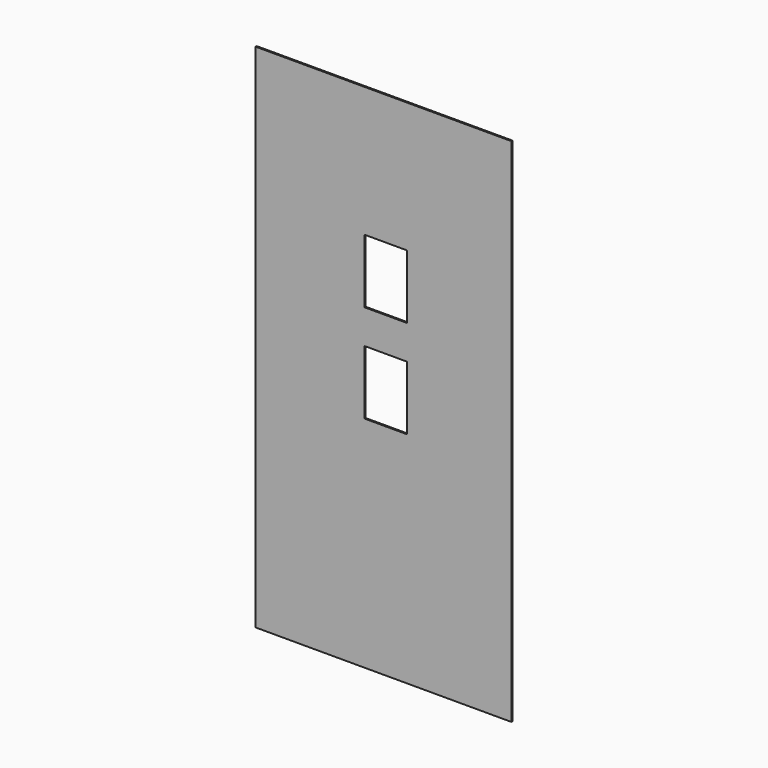
from build123d import *

# Parameters (mm, degrees)
F0_W     = 1219.2
F0_H     = 2438.4
F0_W_2   = 203.2
F0_H_2   = 304.8
F1_DEPTH = 3.175


with BuildPart() as f1:
    # F0 (on Front) → F1 (new body, symmetric)
    with BuildSketch(Plane.XZ):
        Rectangle(F0_W, F0_H)
        with Locations((11.608229, -20.958262)):
            Rectangle(F0_W_2, F0_H_2, mode=Mode.SUBTRACT)
        with Locations((11.608229, 446.332766)):
            Rectangle(F0_W_2, F0_H_2, mode=Mode.SUBTRACT)
    extrude(amount=F1_DEPTH, both=True)


solid = f1.part
